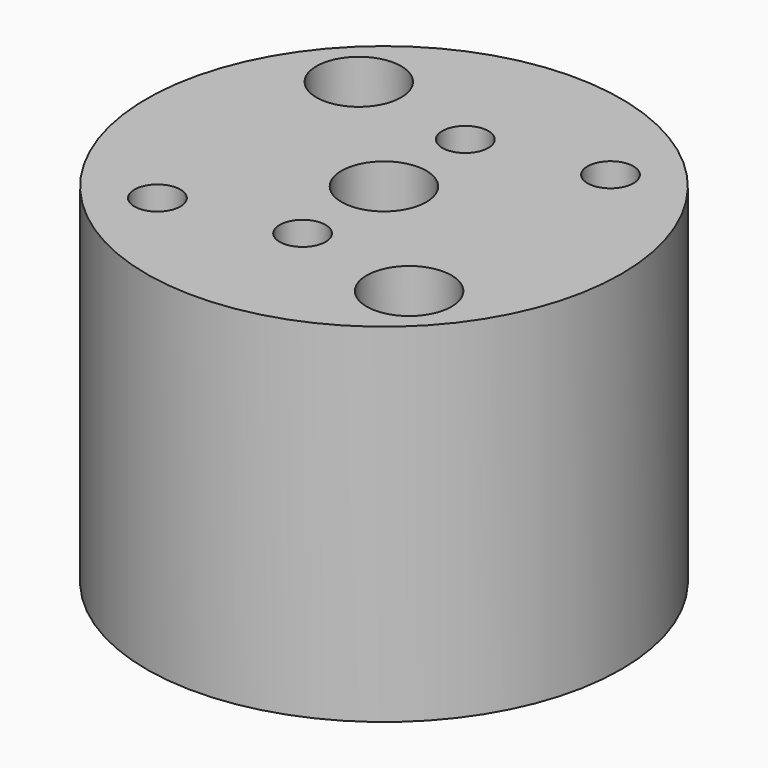
from build123d import *

# Parameters (mm, degrees)
F0_R     = 22.225
F0_R_2   = 2.15265
F0_R_3   = 3.96875
F1_DEPTH = 32.593001
F2_R     = 3.96875
F3_DEPTH = 6.35


with BuildPart() as f1:
    # F0 (on Top) → F1 (new body)
    with BuildSketch(Plane.XY):
        Circle(F0_R)
        with Locations((-11.786586, -11.786586)):
            Circle(F0_R_2, mode=Mode.SUBTRACT)
        with Locations((11.786586, -11.786586)):
            Circle(F0_R_2, mode=Mode.SUBTRACT)
        with Locations((0, -9.525)):
            Circle(F0_R_2, mode=Mode.SUBTRACT)
        with Locations((-11.786586, 11.786586)):
            Circle(F0_R_2, mode=Mode.SUBTRACT)
        Circle(F0_R_3, mode=Mode.SUBTRACT)
        with Locations((0, 9.525)):
            Circle(F0_R_2, mode=Mode.SUBTRACT)
        with Locations((11.786586, 11.786586)):
            Circle(F0_R_2, mode=Mode.SUBTRACT)
    extrude(amount=F1_DEPTH)

    # F2 (on face) → F3 (cut)
    with BuildSketch(Plane.XY.offset(32.593001)):
        with Locations((-11.786586, 11.786586)):
            Circle(F2_R)
        with Locations((11.786586, -11.786586)):
            Circle(F2_R)
    extrude(amount=-F3_DEPTH, mode=Mode.SUBTRACT)


solid = f1.part
